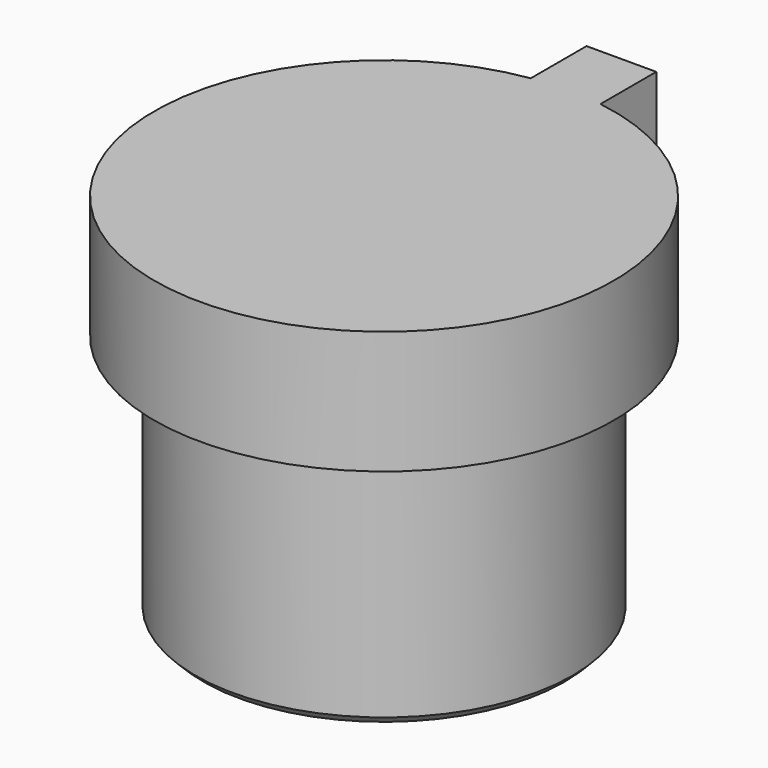
from build123d import *

# Parameters (mm, degrees)
SKETCH058_R     = 2.3
PAD040_DEPTH    = 3
PAD041_DEPTH    = 1.5
SKETCH060_R     = 1.25
POCKET011_DEPTH = 0.6
CHAMFER005_SIZE = 0.1


with BuildPart() as part:
    # Sketch058 → Pad040 (new body)
    with BuildSketch(Plane.XY):
        Circle(SKETCH058_R)
    extrude(amount=PAD040_DEPTH)

    # Sketch059 (on Face3 of Pad040) → Pad041 (join)
    with BuildSketch(Plane.XY.offset(3)):
        with BuildLine():
            Line((0.425, 2.767558), (0.425, 3.617558))
            Line((0.425, 3.617558), (-0.425, 3.617558))
            Line((-0.425, 3.617558), (-0.425, 2.767558))
            ThreePointArc((-0.425, 2.767558), (0, -2.8), (0.425, 2.767558))
        make_face()
    extrude(amount=PAD041_DEPTH)

    # Sketch060 → Pocket011 (cut)
    with BuildSketch(Plane.XY):
        Circle(SKETCH060_R)
    extrude(amount=POCKET011_DEPTH, mode=Mode.SUBTRACT)

    # Chamfer005
    chamfer005_edges = [part.edges().sort_by_distance(p)[0] for p in [
        (-1.25, 0, 0),
        (-2.3, 0, 0),
    ]]
    chamfer(chamfer005_edges, length=CHAMFER005_SIZE)


with BuildPart() as part_1:
    # Body017 placement: moved
    add(part.part.moved(Location((63.6, 11.5, -1.5))))


solid = part_1.part
